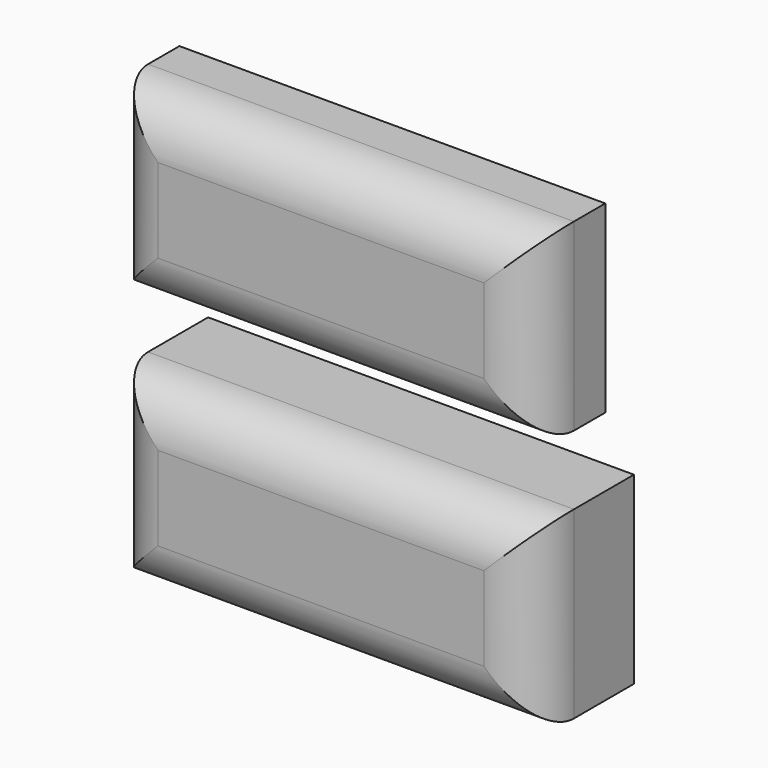
from build123d import *

# Parameters (mm, degrees)
F0_W      = 129.8003941774
F0_H      = 56.1221241951
F1_DEPTH  = 38.1
F2_R      = 15.24
F4_W      = 117.1003952622
F4_H      = 43.4221252799
F5_DEPTH  = 26.162
F8_R      = 10.3011434824
F9_DEPTH  = 24.892
F10_R     = 10.4918071363
F11_DEPTH = 24.892
F12_DEPTH = 10.922


with BuildPart() as f1:
    # F0 (on Front) → F1 (new body)
    with BuildSketch(Plane.XZ):
        Rectangle(F0_W, F0_H)
    extrude(amount=F1_DEPTH)

    # F2
    f2_edges = [f1.edges().sort_by_distance(p)[0] for p in [
        (0, -38.1, -28.061062),
        (0, -38.1, 28.061062),
        (-64.900197, -38.1, 0),
        (64.900197, -38.1, 0),
    ]]
    fillet(f2_edges, radius=F2_R)

    # F4 (on face) → F5 (cut)
    with BuildSketch(Plane.XZ):
        Rectangle(F4_W, F4_H)
    extrude(amount=F5_DEPTH, mode=Mode.SUBTRACT)


with BuildPart() as f6_1:
    # F6: copy of F1
    add(f1.part.moved(Location((0, 0, 77.216))))

    # F12 (cut): a face of the model
    f12_faces = [f6_1.faces().sort_by_distance(p)[0] for p in [
        (0, 0, 50.5690749238),
    ]]
    extrude(f12_faces, amount=-F12_DEPTH, mode=Mode.SUBTRACT)


with BuildPart() as f1_1:
    add(f1.part)

    # F8 (on offset) → F9 (join)
    with BuildSketch(Plane.XZ.offset(27.432)):
        with Locations((-35.5522406348, 0.9174930234)):
            Circle(F8_R)
    extrude(amount=-F9_DEPTH)

    # F10 (on offset) → F11 (join)
    with BuildSketch(Plane.XZ.offset(27.432)):
        with Locations((32.3663327513, 1.2941742118)):
            Circle(F10_R)
    extrude(amount=-F11_DEPTH)


solid = Compound([f6_1.part, f1_1.part])
